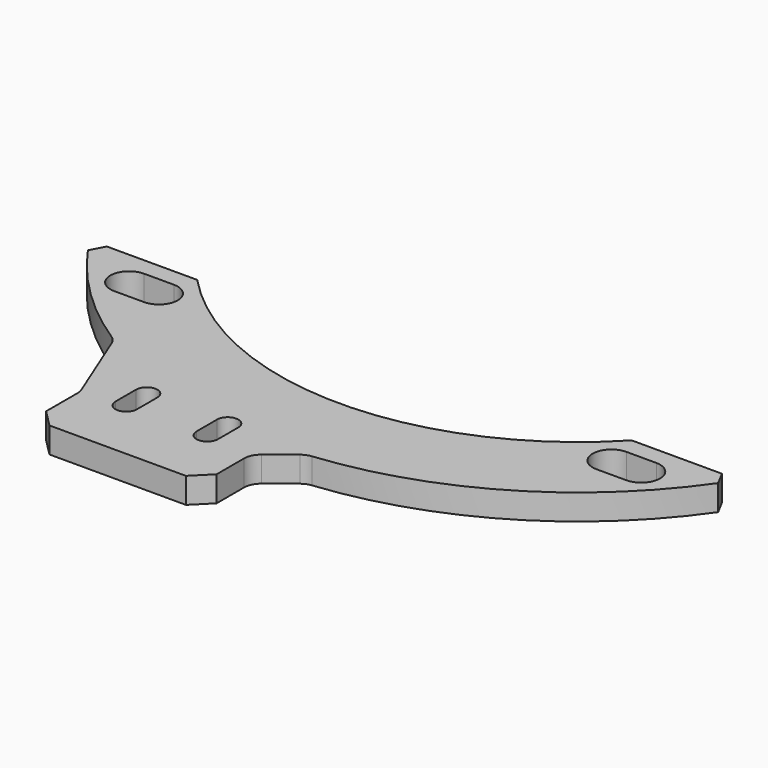
from build123d import *

# Parameters (mm, degrees)
PAD_DEPTH    = 3
CHAMFER_SIZE = 2
FILLET_R     = 2


with BuildPart() as part:
    # Sketch → Pad (new body)
    with BuildSketch(Plane.XY):
        with BuildLine():
            ThreePointArc((-25.475478, -24), (0, -35), (25.475478, -24))
            Line((25.475478, -24), (38.065733, -24))
            ThreePointArc((4, -44.82187), (23.468469, -38.395716), (38.065733, -24))
            Line((0, -48), (4, -44.82187))
            Line((0, -48), (0, -55))
            Line((0, -55), (-20, -55))
            Line((-20, -55), (-20, -48))
            Line((-24, -38.065733), (-20, -48))
            ThreePointArc((-38.065733, -24), (-31.819805, -31.819805), (-24, -38.065733))
            Line((-25.475478, -24), (-38.065733, -24))
        make_face()
        with BuildLine():
            ThreePointArc((-30.034271, -26.084271), (-32.234271, -28.284271), (-30.034271, -30.484271))
            Line((-30.034271, -30.484271), (-26.534271, -30.484271))
            ThreePointArc((-26.534271, -30.484271), (-24.334271, -28.284271), (-26.534271, -26.084271))
            Line((-30.034271, -26.084271), (-26.534271, -26.084271))
        make_face(mode=Mode.SUBTRACT)
        with BuildLine():
            ThreePointArc((26.534271, -26.084271), (24.334271, -28.284271), (26.534271, -30.484271))
            Line((26.534271, -30.484271), (30.034271, -30.484271))
            ThreePointArc((30.034271, -30.484271), (32.234271, -28.284271), (30.034271, -26.084271))
            Line((26.534271, -26.084271), (30.034271, -26.084271))
        make_face(mode=Mode.SUBTRACT)
        with BuildLine():
            ThreePointArc((-4.25, -44.5), (-5.5, -43.25), (-6.75, -44.5))
            Line((-6.75, -44.5), (-6.75, -47.5))
            ThreePointArc((-6.75, -47.5), (-5.5, -48.75), (-4.25, -47.5))
            Line((-4.25, -44.5), (-4.25, -47.5))
        make_face(mode=Mode.SUBTRACT)
        with BuildLine():
            ThreePointArc((-13.75, -44.5), (-15, -43.25), (-16.25, -44.5))
            Line((-16.25, -44.5), (-16.25, -47.5))
            ThreePointArc((-16.25, -47.5), (-15, -48.75), (-13.75, -47.5))
            Line((-13.75, -44.5), (-13.75, -47.5))
        make_face(mode=Mode.SUBTRACT)
    extrude(amount=PAD_DEPTH)

    # Chamfer
    chamfer_edges = [part.edges().sort_by_distance(p)[0] for p in [
        (0, -55, 1.5),
        (38.065733, -24, 1.5),
        (-38.065733, -24, 1.5),
        (-20, -55, 1.5),
    ]]
    chamfer(chamfer_edges, length=CHAMFER_SIZE)

    # Fillet
    fillet_edges = [part.edges().sort_by_distance(p)[0] for p in [
        (-20, -48, 1.5),
        (-24, -38.065733, 1.5),
        (0, -48, 1.5),
        (4, -44.82187, 1.5),
    ]]
    fillet(fillet_edges, radius=FILLET_R)


solid = part.part
